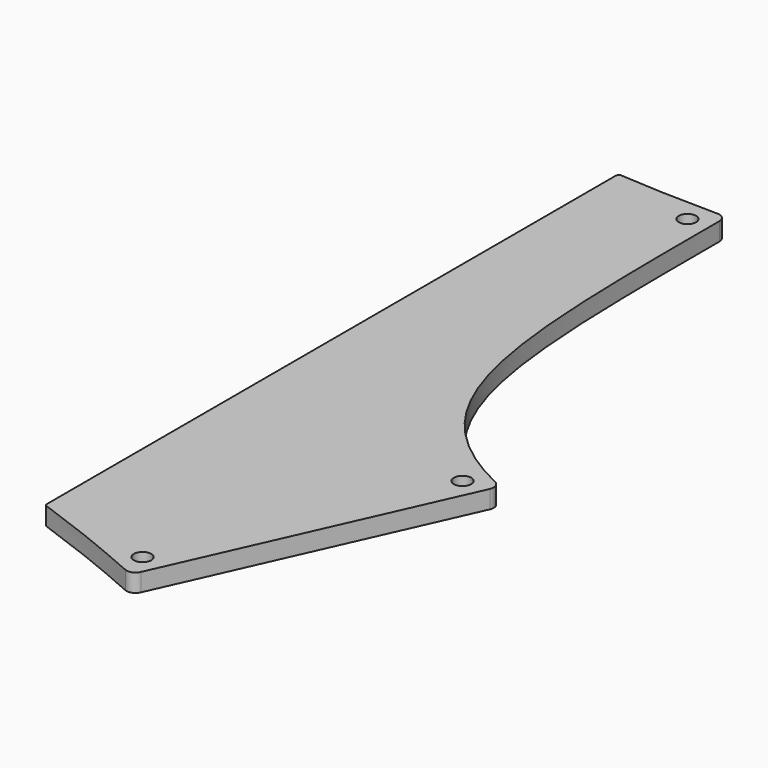
from build123d import *

# Parameters (mm, degrees)
PAD012_DEPTH    = 3
SKETCH047_R     = 1.45
POCKET013_DEPTH = 27
FILLET010_R     = 1.5
FILLET018_R     = 0.5


with BuildPart() as part:
    # Sketch036 → Pad012 (new body)
    with BuildSketch(Plane.XY):
        with BuildLine():
            add(Edge.make_bspline(
                [(132.333333, -29.811537), (140.031799, -32.510384), (146.350027, -35.078621), (153.231854, -38.154949)],
                knots=[0, 0, 0, 0, 1, 1, 1, 1], degree=3))
            Line((153.231854, -38.154949), (175.310198, 11.234895))
            add(Edge.make_bspline(
                [(150.875, 88.9625), (150.875, 42.8625), (150.875, 22.157965), (175.310198, 11.234895)],
                knots=[0, 0, 0, 0, 1, 1, 1, 1], degree=3))
            add(Edge.make_bspline(
                [(132.333333, 89.593483), (137.531693, 89.226463), (141.793335, 88.990242), (150.875, 88.9625)],
                knots=[0, 0, 0, 0, 1, 1, 1, 1], degree=3))
            Line((132.333333, 89.593483), (132.333333, -29.811537))
        make_face()
    extrude(amount=PAD012_DEPTH)

    # Sketch047 → Pocket013 (cut)
    with BuildSketch(Plane.XY):
        with Locations((-4.375, -4.375)):
            Circle(SKETCH047_R)
        with Locations((-4.375, 80.575)):
            Circle(SKETCH047_R)
        with Locations((151.401832, -33.366184)):
            Circle(SKETCH047_R)
        with Locations((170.521433, 9.404873)):
            Circle(SKETCH047_R)
        with Locations((147.25, 85.3375)):
            Circle(SKETCH047_R)
        with Locations((43.25, -13.9)):
            Circle(SKETCH047_R)
        with Locations((57.15, 92.085)):
            Circle(SKETCH047_R)
        with Locations((95.25, 92.085)):
            Circle(SKETCH047_R)
        with Locations((95.25, -13.9)):
            Circle(SKETCH047_R)
    extrude(amount=POCKET013_DEPTH, mode=Mode.SUBTRACT)

    # Fillet010
    fillet010_edges = [part.edges().sort_by_distance(p)[0] for p in [
        (175.310198, 11.234895, 1.5),
        (150.875, 88.9625, 1.5),
        (153.231854, -38.154949, 1.5),
    ]]
    fillet(fillet010_edges, radius=FILLET010_R)

    # Fillet018
    fillet018_edges = [part.edges().sort_by_distance(p)[0] for p in [
        (132.333333, 89.593483, 1.5),
        (132.333333, -29.811537, 1.5),
    ]]
    fillet(fillet018_edges, radius=FILLET018_R)


with BuildPart() as part_1:
    # Body011 placement: moved
    add(part.part.moved(Location((0, 0, -24))))


solid = part_1.part
